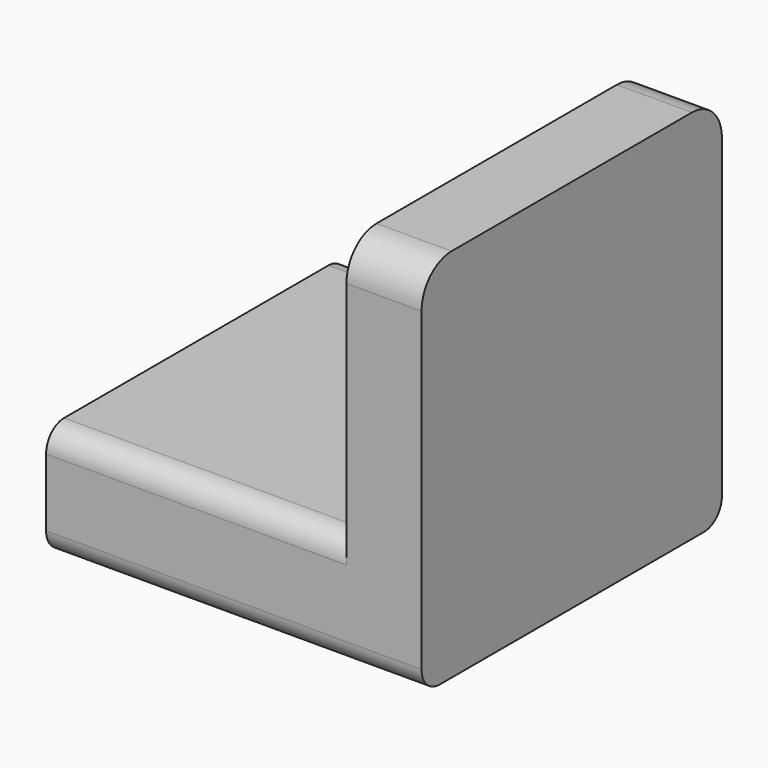
from build123d import *

# Parameters (mm, degrees)
F1_DEPTH = 50
F2_R     = 5
F3_R     = 6.5
F3_R_2   = 1.4
F4_DEPTH = 3.3
F5_DEPTH = 13.3
F6_R     = 3


with BuildPart() as f1:
    # F0 (on Front) → F1 (new body)
    with BuildSketch(Plane.XZ):
        Polygon((-50, 15), (-50, 0), (0, 0), (0, 50), (-10, 50), (-10, 15), align=None)
    extrude(amount=F1_DEPTH)

    # F2
    f2_edges = [f1.edges().sort_by_distance(p)[0] for p in [
        (-5, -50, 50),
        (-5, 0, 50),
    ]]
    fillet(f2_edges, radius=F2_R)

    # F3 (on face) → F4 (cut)
    with BuildSketch(Plane(origin=(-50, 0, 0), x_dir=(0, -1, 0), z_dir=(-1, 0, 0))):
        with Locations((8, 7.5)):
            Circle(F3_R)
        with Locations((8, 7.5)):
            Circle(F3_R_2, mode=Mode.SUBTRACT)
        with Locations((25, 7.5)):
            Circle(F3_R)
        with Locations((25, 7.5)):
            Circle(F3_R_2, mode=Mode.SUBTRACT)
        with Locations((42, 7.5)):
            Circle(F3_R)
        with Locations((42, 7.5)):
            Circle(F3_R_2, mode=Mode.SUBTRACT)
        with Locations((8, 7.5)):
            Circle(F3_R_2)
        with Locations((25, 7.5)):
            Circle(F3_R_2)
        with Locations((42, 7.5)):
            Circle(F3_R_2)
    extrude(amount=-F4_DEPTH, mode=Mode.SUBTRACT)

    # F3 (on face) → F5 (cut)
    with BuildSketch(Plane(origin=(-50, 0, 0), x_dir=(0, -1, 0), z_dir=(-1, 0, 0))):
        with Locations((8, 7.5)):
            Circle(F3_R_2)
        with Locations((25, 7.5)):
            Circle(F3_R_2)
        with Locations((42, 7.5)):
            Circle(F3_R_2)
    extrude(amount=-F5_DEPTH, mode=Mode.SUBTRACT)

    # F6
    f6_edges = [f1.edges().sort_by_distance(p)[0] for p in [
        (-25, -50, 0),
        (-25, 0, 0),
        (-30, 0, 15),
        (-30, -50, 15),
    ]]
    fillet(f6_edges, radius=F6_R)


solid = f1.part
